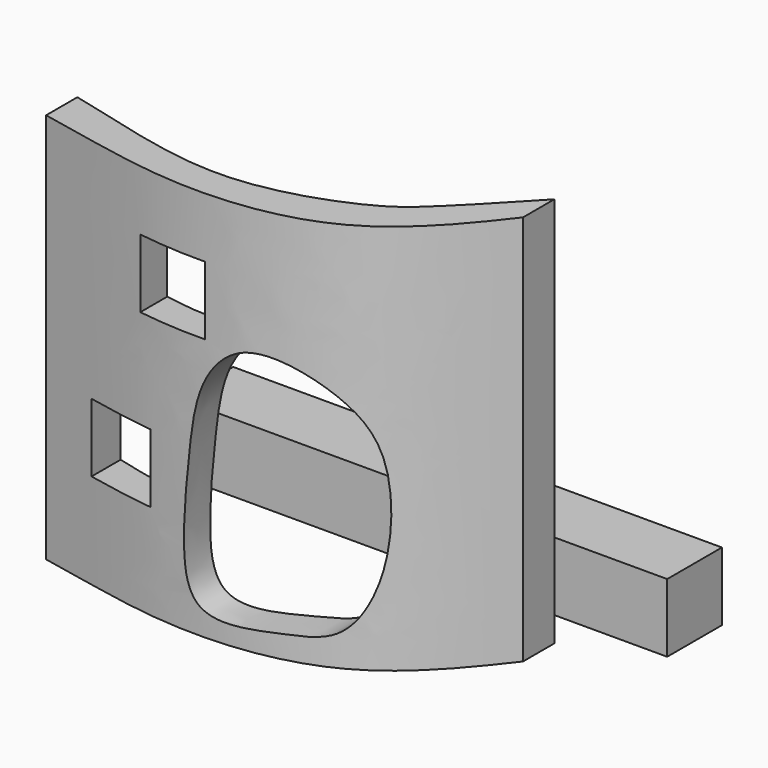
from build123d import *

# Parameters (mm, degrees)
F1_DEPTH = 40
F2_W     = 7
F2_H     = 7
F3_DEPTH = 25
F4_W     = 50
F4_H     = 7
F5_DEPTH = 7


with BuildPart() as f1:
    # F0 (on Top) → F1 (new body)
    with BuildSketch(Plane.XY):
        with BuildLine():
            add(Edge.make_bspline(
                [(-48.6156083643, 10.2875726297), (-43.4733187348, 9.1108955617), (-31.8220733642, 5.0148085364), (-18.614967209, 9.9643111938), (-14.8732839652, 12.8618905652), (-10.3830992131, 17.5682967624), (-7.8294798732, 20.2962432951)],
                knots=[0, 0, 0, 0, 0.3189414643, 0.5928417153, 0.757615537, 1, 1, 1, 1], degree=3))
            Line((-48.6156083643, 10.2875726297), (-48.6156083643, 6.2875726297))
            add(Edge.make_bspline(
                [(-48.6156083643, 6.2875726297), (-43.7374007955, 5.3575686248), (-33.9718217418, 2.7711026196), (-17.3779863187, 4.6209908398), (-10.9349629168, 12.2356218457), (-7.8294798732, 16.2962432951)],
                knots=[0, 0, 0, 0, 0.3342407118, 0.6724197122, 1, 1, 1, 1], degree=3))
            Line((-7.8294798732, 16.2962432951), (-7.8294798732, 20.2962432951))
        make_face()
    extrude(amount=F1_DEPTH)

    # F2 (on Front) → F3 (cut)
    with BuildSketch(Plane.XZ):
        with Locations((-39.5520258546, 13.241329588)):
            Rectangle(F2_W, F2_H)
        with Locations((-33.7254334092, 30.356938377)):
            Rectangle(F2_W, F2_H)
        with BuildLine():
            add(Edge.make_bspline(
                [(-30.7716783136, 2.6401735377), (-29.1150607693, 1.4812871056), (-23.1764486473, 2.5063931272), (-18.1755364553, 2.3775081724), (-15.270305666, 7.8417375563), (-14.7275875267, 16.3004656814), (-16.2586119224, 22.7675075376), (-21.3867847503, 26.7696093394), (-27.0832678369, 27.5141677798), (-31.0674507155, 22.9228573012), (-31.9029228202, 15.9915029062), (-32.6135860351, 8.8729005432), (-32.2624557028, 3.6830465263), (-30.7716783136, 2.6401735377)],
                knots=[0, 0, 0, 0, 0.0991096339, 0.1787063751, 0.2622321665, 0.3684746851, 0.4605648585, 0.549994018, 0.6319531641, 0.7152569694, 0.8104329648, 0.9108120026, 1, 1, 1, 1], degree=3))
        make_face()
    extrude(amount=-F3_DEPTH, mode=Mode.SUBTRACT)


with BuildPart() as f5:
    # F4 (on Top) → F5 (new body)
    with BuildSketch(Plane.XY):
        with Locations((-24.34393242, 27.6257231683)):
            Rectangle(F4_W, F4_H)
    extrude(amount=F5_DEPTH)


solid = Compound([f1.part, f5.part])
